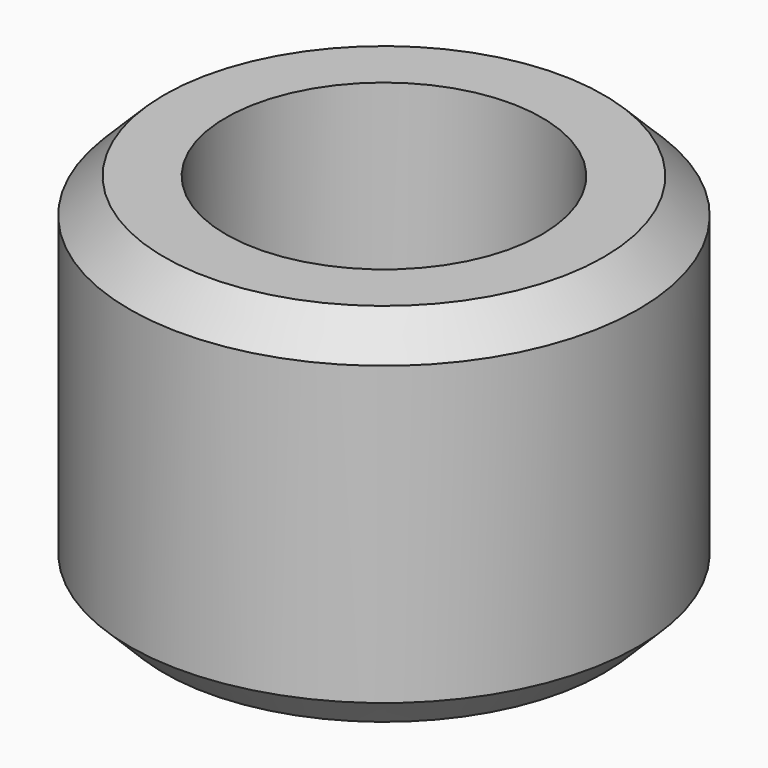
from build123d import *

# Parameters (mm, degrees)
F0_R     = 16.764
F0_R_2   = 10.414
F1_DEPTH = 22.86
F2_DEPTH = 1.27
F3_SIZE  = 2.286


with BuildPart() as f1:
    # F0 (on Top) → F1 (new body)
    with BuildSketch(Plane.XY):
        Circle(F0_R)
        Circle(F0_R_2, mode=Mode.SUBTRACT)
    extrude(amount=F1_DEPTH)

    # F0 (on Top) → F2 (join)
    with BuildSketch(Plane.XY):
        Circle(F0_R)
        Circle(F0_R_2, mode=Mode.SUBTRACT)
        Circle(F0_R_2)
    extrude(amount=-F2_DEPTH)

    # F3
    f3_edges = [f1.edges().sort_by_distance(p)[0] for p in [
        (-16.764, 0, -1.27),
        (-16.764, 0, 22.86),
    ]]
    chamfer(f3_edges, length=F3_SIZE)


solid = f1.part
